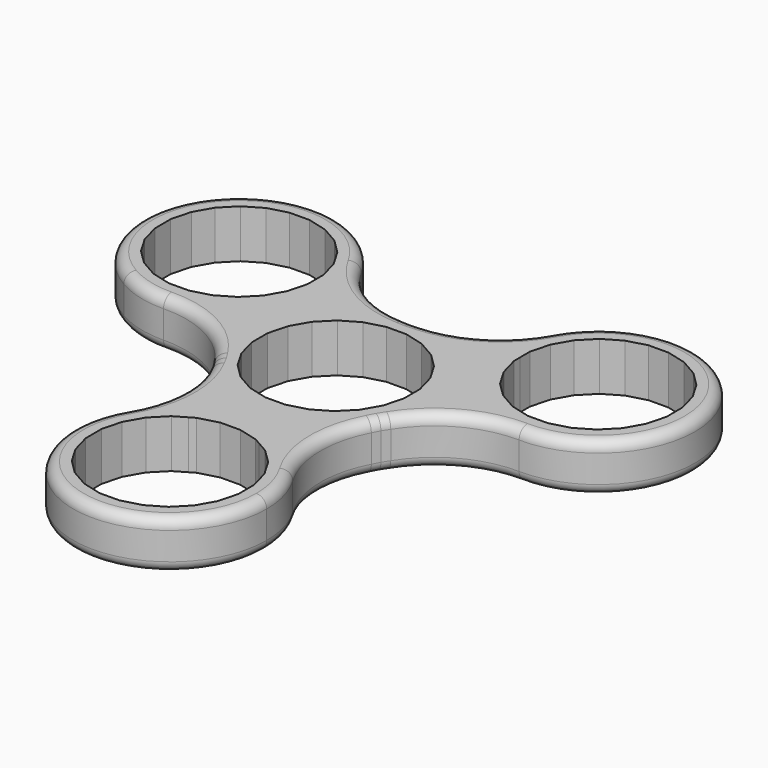
from build123d import *

# Parameters (mm, degrees)
F2_DEPTH = 7
F3_R     = 15
F4_R     = 1.5
F5_COUNT = 3


with BuildPart() as f2:
    # F1 (on Top) → F2 (new body)
    with BuildSketch(Plane.XY):
        with BuildLine():
            ThreePointArc((12.382065884, -6.5333333333), (13.5894981949, -3.3653437881), (14, 0))
            ThreePointArc((14, 0), (-3.3653437881, 13.5894981949), (-12.382065884, -6.5333333333))
            ThreePointArc((-12.382065884, -6.5333333333), (0, -14), (12.382065884, -6.5333333333))
        make_face()
        Polygon((11.0052513525, -1.4077146954), (10.2659131329, -4.2081166265), (8.8269698986, -6.7217423638), (6.7864832529, -8.7772924671), (4.2835089887, -10.234684594), (1.4886206658, -10.9945998794), (-1.4077146954, -11.0052513525), (-4.2081166265, -10.2659131329), (-6.7217423638, -8.8269698986), (-8.7772924671, -6.7864832529), (-10.234684594, -4.2835089887), (-10.9945998794, -1.4886206658), (-11.0052513525, 1.4077146954), (-10.2659131329, 4.2081166265), (-8.8269698986, 6.7217423638), (-6.7864832529, 8.7772924671), (-4.2835089887, 10.234684594), (-1.4886206658, 10.9945998794), (1.4077146954, 11.0052513525), (4.2081166265, 10.2659131329), (6.7217423638, 8.8269698986), (8.7772924671, 6.7864832529), (10.234684594, 4.2835089887), (10.9945998794, 1.4886206658), align=None, mode=Mode.SUBTRACT)
        with BuildLine():
            ThreePointArc((12.382065884, -6.5333333333), (0, -14), (-12.382065884, -6.5333333333))
            Line((-12.382065884, -6.5333333333), (-6.5333333333, -17.617934116))
            ThreePointArc((-6.5333333333, -17.617934116), (0, -16), (6.5333333333, -17.617934116))
            Line((6.5333333333, -17.617934116), (12.382065884, -6.5333333333))
        make_face()
        with BuildLine():
            Line((-5.1383635248, -20.2617006582), (-6.5333333333, -17.617934116))
            ThreePointArc((-6.5333333333, -17.617934116), (-7.2295689129, -41.9888837401), (14, -30))
            ThreePointArc((14, -30), (11.9888837401, -22.7704310871), (6.5333333333, -17.617934116))
            Line((6.5333333333, -17.617934116), (5.1359478763, -20.2662788295))
            Line((5.1359478763, -20.2662788295), (6.6997112048, -21.1562967165))
            Line((6.6997112048, -21.1562967165), (8.7603429204, -23.1916514549))
            Line((8.7603429204, -23.1916514549), (10.2239717431, -25.6909838953))
            Line((10.2239717431, -25.6909838953), (10.9908537875, -28.4839686623))
            Line((10.9908537875, -28.4839686623), (11.0087273095, -31.3802684596))
            Line((11.0087273095, -31.3802684596), (10.2763742581, -34.1825052424))
            Line((10.2763742581, -34.1825052424), (8.8437032835, -36.6997112048))
            Line((8.8437032835, -36.6997112048), (6.8083485451, -38.7603429204))
            Line((6.8083485451, -38.7603429204), (4.3090161047, -40.2239717431))
            Line((4.3090161047, -40.2239717431), (1.5160313377, -40.9908537875))
            Line((1.5160313377, -40.9908537875), (-1.3802684596, -41.0087273095))
            Line((-1.3802684596, -41.0087273095), (-4.1825052424, -40.2763742581))
            Line((-4.1825052424, -40.2763742581), (-6.6997112048, -38.8437032835))
            Line((-6.6997112048, -38.8437032835), (-8.7603429204, -36.8083485451))
            Line((-8.7603429204, -36.8083485451), (-10.2239717431, -34.3090161047))
            Line((-10.2239717431, -34.3090161047), (-10.9908537875, -31.5160313377))
            Line((-10.9908537875, -31.5160313377), (-11.0087273095, -28.6197315404))
            Line((-11.0087273095, -28.6197315404), (-10.2763742581, -25.8174947576))
            Line((-10.2763742581, -25.8174947576), (-8.8437032835, -23.3002887952))
            Line((-8.8437032835, -23.3002887952), (-6.8083485451, -21.2396570796))
            Line((-6.8083485451, -21.2396570796), (-5.1383635248, -20.2617006582))
        make_face()
        with BuildLine():
            ThreePointArc((6.5333333333, -17.617934116), (0, -16), (-6.5333333333, -17.617934116))
            Line((-6.5333333333, -17.617934116), (-5.1383635248, -20.2617006582))
            Line((-5.1383635248, -20.2617006582), (-4.3090161047, -19.7760282569))
            Line((-4.3090161047, -19.7760282569), (-1.5160313377, -19.0091462125))
            Line((-1.5160313377, -19.0091462125), (1.3802684596, -18.9912726905))
            Line((1.3802684596, -18.9912726905), (4.1825052424, -19.7236257419))
            Line((4.1825052424, -19.7236257419), (5.1359478763, -20.2662788295))
            Line((5.1359478763, -20.2662788295), (6.5333333333, -17.617934116))
        make_face()
    extrude(amount=F2_DEPTH)

    # F3
    f3_edges = [f2.edges().sort_by_distance(p)[0] for p in [
        (6.533333, -17.617934, 3.5),
        (-6.533333, -17.617934, 3.5),
    ]]
    fillet(f3_edges, radius=F3_R)

    # F4
    f4_edges = [f2.edges().sort_by_distance(p)[0] for p in [
        (0, -44, 7),
        (11.982214, -7.291138, 7),
        (11.982214, -7.291138, 0),
        (0, -44, 0),
    ]]
    fillet(f4_edges, radius=F4_R)

    # F5: F2 ×3 about axis
    f5_axis = Axis((0, 0, 3.420983674), (0, 0, 1))


with BuildPart() as f2_1:
    add(f2.part)
    for i in range(1, F5_COUNT):
        add(f2.part.rotate(f5_axis, i * 360 / F5_COUNT))


solid = f2_1.part
